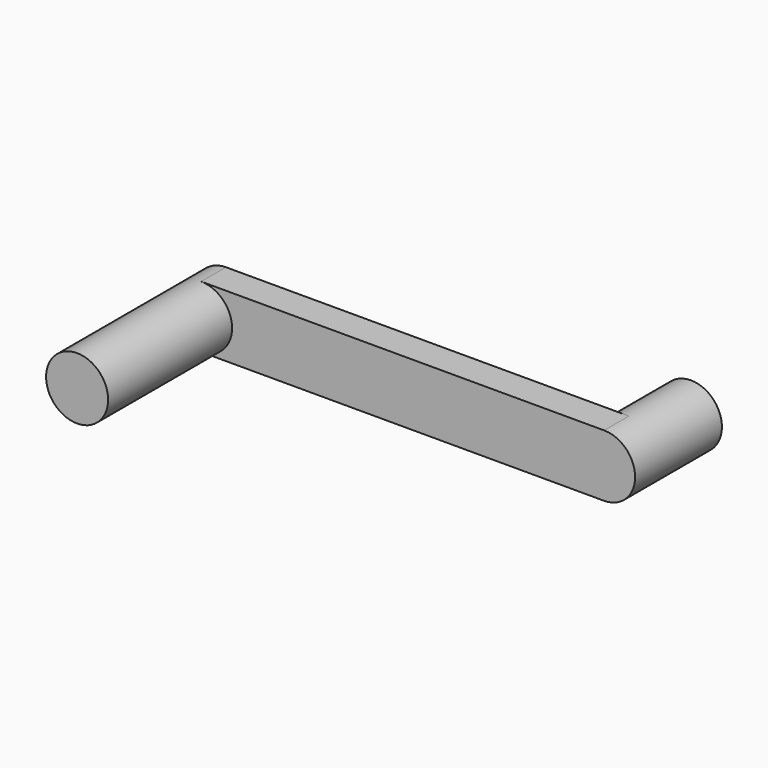
from build123d import *

# Parameters (mm, degrees)
F1_DEPTH = 5.08
F2_DEPTH = 25.4
F3_DEPTH = 17.78


with BuildPart() as f1:
    # F0 (on Front) → F1 (new body)
    with BuildSketch(Plane.XZ):
        with BuildLine():
            ThreePointArc((-27.94, 0), (-29.4278975516, 3.5921024484), (-33.02, 5.08))
            ThreePointArc((-33.02, 5.08), (-36.6121024484, 3.5921024484), (-38.1, 0))
            ThreePointArc((-38.1, 0), (-36.6121024484, -3.5921024484), (-33.02, -5.08))
            ThreePointArc((-33.02, -5.08), (-29.4278975516, -3.5921024484), (-27.94, 0))
        make_face()
        with BuildLine():
            Line((33.019999962, 5.08), (-33.02, 5.08))
            ThreePointArc((-33.02, 5.08), (-29.4278975516, 3.5921024484), (-27.94, 0))
            ThreePointArc((-27.94, 0), (-29.4278975516, -3.5921024484), (-33.02, -5.08))
            Line((-33.02, -5.08), (33.02, -5.08))
            ThreePointArc((33.02, -5.08), (27.94, -1.9e-08), (33.019999962, 5.08))
        make_face()
        with BuildLine():
            ThreePointArc((38.1, 0), (36.612102435, 3.5921024619), (33.019999962, 5.08))
            ThreePointArc((33.019999962, 5.08), (27.94, -1.9e-08), (33.02, -5.08))
            ThreePointArc((33.02, -5.08), (36.6121024484, -3.5921024484), (38.1, 0))
        make_face()
    extrude(amount=-F1_DEPTH)

    # F0 (on Front) → F2 (join)
    with BuildSketch(Plane.XZ):
        with BuildLine():
            ThreePointArc((-27.94, 0), (-29.4278975516, 3.5921024484), (-33.02, 5.08))
            ThreePointArc((-33.02, 5.08), (-36.6121024484, 3.5921024484), (-38.1, 0))
            ThreePointArc((-38.1, 0), (-36.6121024484, -3.5921024484), (-33.02, -5.08))
            ThreePointArc((-33.02, -5.08), (-29.4278975516, -3.5921024484), (-27.94, 0))
        make_face()
    extrude(amount=F2_DEPTH)

    # F0 (on Front) → F3 (join)
    with BuildSketch(Plane.XZ):
        with BuildLine():
            ThreePointArc((38.1, 0), (36.612102435, 3.5921024619), (33.019999962, 5.08))
            ThreePointArc((33.019999962, 5.08), (27.94, -1.9e-08), (33.02, -5.08))
            ThreePointArc((33.02, -5.08), (36.6121024484, -3.5921024484), (38.1, 0))
        make_face()
    extrude(amount=-F3_DEPTH)


solid = f1.part
